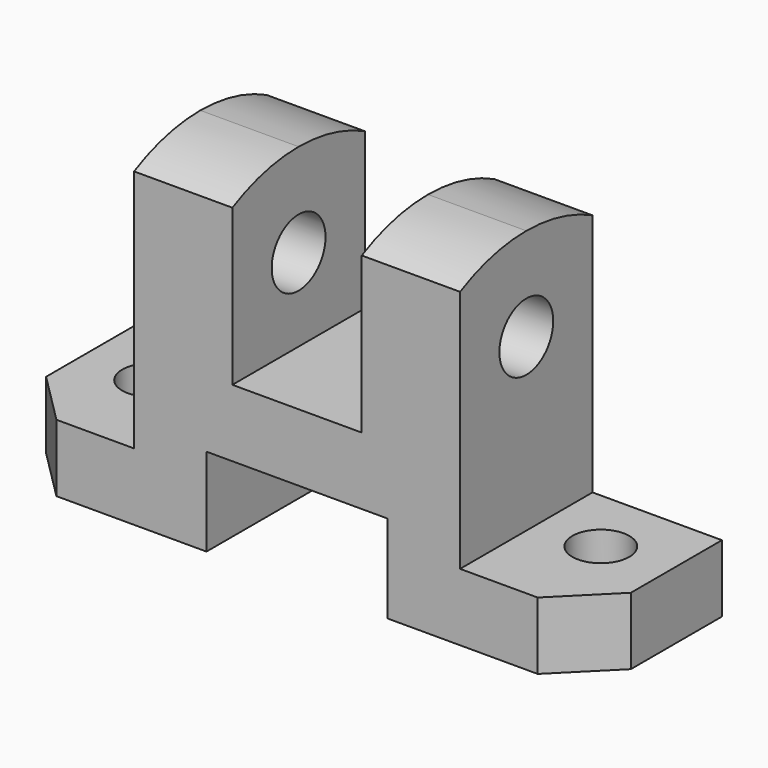
from build123d import *

# Parameters (mm, degrees)
F1_DEPTH = 16
F2_R     = 6.5
F3_DEPTH = 80
F5_DEPTH = 80
F6_R     = 5.5
F7_DEPTH = 25


with BuildPart() as f1:
    # F0 (on Front) → F1 (new body, symmetric)
    with BuildSketch(Plane.XZ):
        Polygon((0, 13), (0, 0), (39, 0), (39, 17), (74, 17), (74, 0), (113, 0), (113, 13), (88, 13), (88, 64), (69, 64), (69, 30), (44, 30), (44, 64), (25, 64), (25, 13), align=None)
    extrude(amount=F1_DEPTH, both=True)

    # F2 (on face) → F3 (cut)
    with BuildSketch(Plane.YZ.offset(88)):
        with Locations((0, 46)):
            Circle(F2_R)
    extrude(amount=-F3_DEPTH, mode=Mode.SUBTRACT)

    # F4 (on face) → F5 (cut)
    with BuildSketch(Plane.YZ.offset(88)):
        with BuildLine():
            Line((-16, 64), (-16, 60.128765))
            ThreePointArc((-16, 60.128765), (-8.230833, 63.018427), (0, 64))
            Line((0, 64), (-16, 64))
        make_face()
        with BuildLine():
            Line((16, 64), (0, 64))
            ThreePointArc((0, 64), (8.230833, 63.018427), (16, 60.128765))
            Line((16, 60.128765), (16, 64))
        make_face()
    extrude(amount=-F5_DEPTH, mode=Mode.SUBTRACT)

    # F6 (on face) → F7 (cut)
    with BuildSketch(Plane(origin=(0, 0, 0), x_dir=(1, 0, 0), z_dir=(0, 0, -1))):
        Polygon((10, 16), (0, 16), (0, 6), align=None)
        with Locations((13, -3)):
            Circle(F6_R)
        with Locations((100, -3)):
            Circle(F6_R)
        Polygon((113, 6), (113, 16), (103, 16), align=None)
    extrude(amount=-F7_DEPTH, mode=Mode.SUBTRACT)


solid = f1.part
